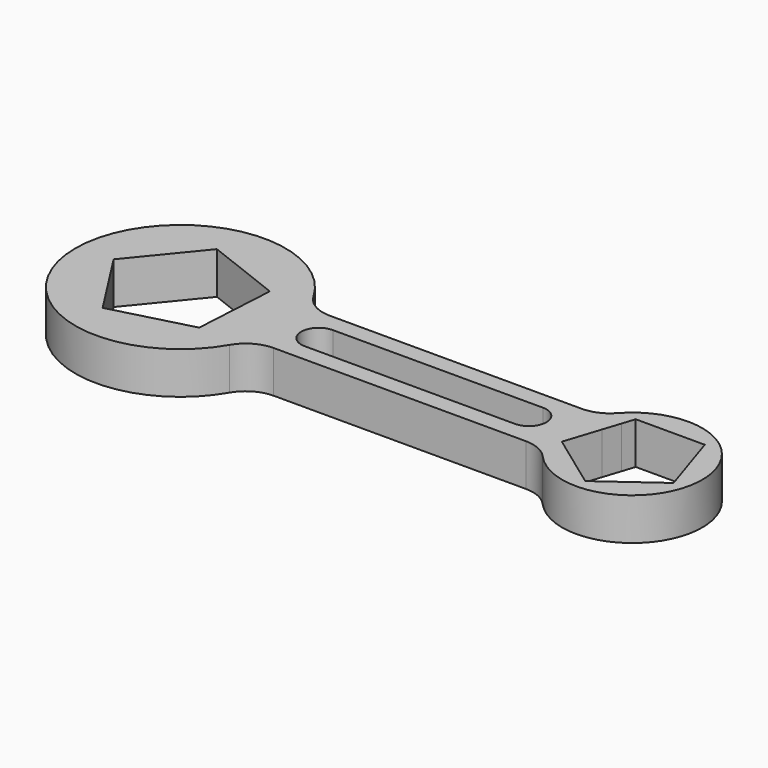
from build123d import *

# Parameters (mm, degrees)
F1_DEPTH = 12
F2_R     = 10


with BuildPart() as f1:
    # F0 (on Top) → F1 (new body)
    with BuildSketch(Plane.XY):
        with BuildLine():
            Line((-53.4884225706, 10), (-42.015376262, 10))
            ThreePointArc((-42.015376262, 10), (-100.2996475094, 0), (-42.015376262, -10))
            Line((-42.015376262, -10), (-54.6374159872, -10))
            Line((-54.6374159872, -10), (-54.7918173384, -12.6875933137))
            Line((-54.7918173384, -12.6875933137), (-77.5740827378, -18.6695048894))
            Line((-77.5740827378, -18.6695048894), (-90.3033259005, 1.1492047389))
            Line((-90.3033259005, 1.1492047389), (-75.3881654268, 19.3797524781))
            Line((-75.3881654268, 19.3797524781), (-53.4408461436, 10.8281409861))
            Line((-53.4408461436, 10.8281409861), (-53.4884225706, 10))
        make_face()
        with BuildLine():
            Line((-53.4235, 5), (-40.7192485939, 5))
            ThreePointArc((-40.7192485939, 5), (-41.2595026533, 7.5279470464), (-42.015376262, 10))
            Line((-42.015376262, 10), (-53.4884225706, 10))
            Line((-53.4884225706, 10), (-54.6374159872, -10))
            Line((-54.6374159872, -10), (-42.015376262, -10))
            ThreePointArc((-42.015376262, -10), (-41.2595026533, -7.5279470464), (-40.7192485939, -5))
            Line((-40.7192485939, -5), (-53.4235, -5))
            Line((-53.4235, -5), (-53.4235, 5))
        make_face()
        with BuildLine():
            ThreePointArc((-40.7192485939, -5), (-40.4047318258, -2.5087878084), (-40.2996475094, 0))
            ThreePointArc((-40.2996475094, 0), (-40.4047318258, 2.5087878084), (-40.7192485939, 5))
            Line((-40.7192485939, 5), (-53.4235, 5))
            Line((-53.4235, 5), (-53.4235, -5))
            Line((-53.4235, -5), (-40.7192485939, -5))
        make_face()
        with BuildLine():
            ThreePointArc((-42.015376262, 10), (-41.2595026533, 7.5279470464), (-40.7192485939, 5))
            Line((-40.7192485939, 5), (-30.7996475094, 5))
            Line((-30.7996475094, 5), (29.2003524628, 5))
            Line((29.2003524628, 5), (39.3354357595, 5))
            ThreePointArc((39.3354357595, 5), (40.1880566224, 7.5693395807), (41.3798444149, 10))
            Line((41.3798444149, 10), (-42.015376262, 10))
        make_face()
        with BuildLine():
            ThreePointArc((-40.7192485939, 5), (-40.4047318258, 2.5087878084), (-40.2996475094, 0))
            ThreePointArc((-40.2996475094, 0), (-40.4047318258, -2.5087878084), (-40.7192485939, -5))
            Line((-40.7192485939, -5), (-30.7996475094, -5))
            ThreePointArc((-30.7996475094, -5), (-35.7996475094, 0), (-30.7996475094, 5))
            Line((-30.7996475094, 5), (-40.7192485939, 5))
        make_face()
        with BuildLine():
            Line((-30.7996475094, -5), (-40.7192485939, -5))
            ThreePointArc((-40.7192485939, -5), (-41.2595026533, -7.5279470464), (-42.015376262, -10))
            Line((-42.015376262, -10), (41.3798444149, -10))
            ThreePointArc((41.3798444149, -10), (40.1880566224, -7.5693395807), (39.3354357595, -5))
            Line((39.3354357595, -5), (29.2003524906, -5))
            Line((29.2003524906, -5), (-30.7996475094, -5))
        make_face()
        with BuildLine():
            Line((39.3354357595, 5), (29.2003524628, 5))
            ThreePointArc((29.2003524628, 5), (32.7358863867, 3.5355339158), (34.2003524906, 0))
            ThreePointArc((34.2003524906, 0), (32.7358863965, -3.5355339059), (29.2003524906, -5))
            Line((29.2003524906, -5), (39.3354357595, -5))
            ThreePointArc((39.3354357595, -5), (38.7003524906, 0), (39.3354357595, 5))
        make_face()
        with BuildLine():
            Line((47.68120707, 10), (41.3798444149, 10))
            ThreePointArc((41.3798444149, 10), (40.1880566224, 7.5693395807), (39.3354357595, 5))
            Line((39.3354357595, 5), (46.0566085888, 5))
            Line((46.0566085888, 5), (47.68120707, 10))
        make_face()
        with BuildLine():
            ThreePointArc((78.7003524906, 0), (63.8767333926, 19.3185165258), (41.3798444149, 10))
            Line((41.3798444149, 10), (47.68120707, 10))
            Line((47.68120707, 10), (48.8411703855, 13.57))
            Line((48.8411703855, 13.57), (68.5595345956, 13.57))
            Line((68.5595345956, 13.57), (74.6528442378, -5.1832787727))
            Line((74.6528442378, -5.1832787727), (58.7003524906, -16.7734424547))
            Line((58.7003524906, -16.7734424547), (49.3775087566, -10))
            Line((49.3775087566, -10), (41.3798444149, -10))
            ThreePointArc((41.3798444149, -10), (63.8767333926, -19.3185165258), (78.7003524906, 0))
        make_face()
        with BuildLine():
            Line((46.0566085888, 5), (39.3354357595, 5))
            ThreePointArc((39.3354357595, 5), (38.7003524906, 0), (39.3354357595, -5))
            Line((39.3354357595, -5), (42.8074116265, -5))
            Line((42.8074116265, -5), (46.0566085888, 5))
        make_face()
        with BuildLine():
            ThreePointArc((39.3354357595, -5), (40.1880566224, -7.5693395807), (41.3798444149, -10))
            Line((41.3798444149, -10), (49.3775087566, -10))
            Line((49.3775087566, -10), (42.7478607434, -5.1832787727))
            Line((42.7478607434, -5.1832787727), (42.8074116265, -5))
            Line((42.8074116265, -5), (39.3354357595, -5))
        make_face()
    extrude(amount=F1_DEPTH)

    # F2
    f2_edges = [f1.edges().sort_by_distance(p)[0] for p in [
        (41.379844, -10, 6),
        (-42.015376, -10, 6),
        (41.379844, 10, 6),
        (-42.015376, 10, 6),
    ]]
    fillet(f2_edges, radius=F2_R)


solid = f1.part
